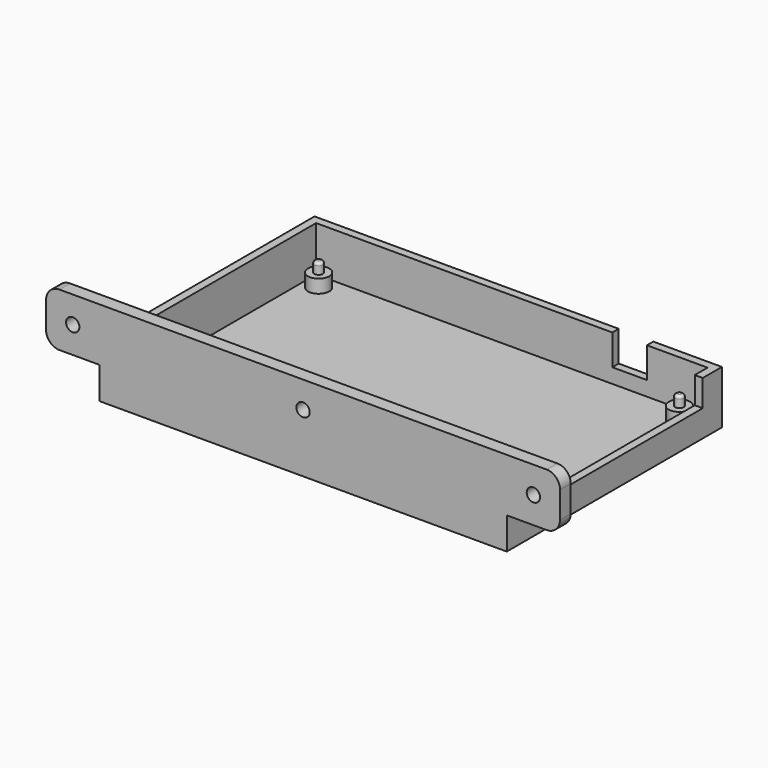
from build123d import *

# Parameters (mm, degrees)
F0_W          = 153
F0_H          = 99
F0_R          = 4
F1_DEPTH      = 20
F2_T          = -3
F3_R          = 4
F4_DEPTH      = 5
F5_R          = 1.6
F6_DEPTH      = 4
F7_R          = 1
F8_W          = 153
F8_H          = 8
F8_H_2        = 12
F9_DEPTH      = 3
F9_DEPTH_BACK = 2
F10_R         = 5
F11_W         = 13
F11_H         = 11.5
F12_DEPTH     = 3
F14_W         = 76
F14_H         = 10
F15_DEPTH     = 3
F17_D         = 5
F17_DEPTH     = 6
F17_TIP       = 1.5021515476


with BuildPart() as f1:
    # F0 (on Top) → F1 (new body)
    with BuildSketch(Plane.XY):
        with Locations((0, -2.5)):
            Rectangle(F0_W, F0_H)
        with Locations((-67.75, -38)):
            Circle(F0_R, mode=Mode.SUBTRACT)
        with Locations((67.75, -38)):
            Circle(F0_R, mode=Mode.SUBTRACT)
        with Locations((-67.75, 38)):
            Circle(F0_R, mode=Mode.SUBTRACT)
        with Locations((67.75, 38)):
            Circle(F0_R, mode=Mode.SUBTRACT)
        with Locations((-67.75, 38)):
            Circle(F0_R)
        with Locations((-67.75, -38)):
            Circle(F0_R)
        with Locations((67.75, -38)):
            Circle(F0_R)
        with Locations((67.75, 38)):
            Circle(F0_R)
    extrude(amount=F1_DEPTH)

    # F2
    f2_openings = [f1.faces().sort_by_distance(p)[0] for p in [
        (0, -2.5, 20),
    ]]
    offset(amount=F2_T, openings=f2_openings)

    # F3 (on face) → F4 (join)
    with BuildSketch(Plane.XY.offset(3)):
        with Locations((-67.75, 38)):
            Circle(F3_R)
        with Locations((-67.75, -38)):
            Circle(F3_R)
        with Locations((67.75, 38)):
            Circle(F3_R)
        with Locations((67.75, -38)):
            Circle(F3_R)
    extrude(amount=F4_DEPTH)

    # F5 (on face) → F6 (join)
    with BuildSketch(Plane.XY.offset(8)):
        with Locations((-67.75, -38)):
            Circle(F5_R)
        with Locations((-67.75, 38)):
            Circle(F5_R)
        with Locations((67.75, 38)):
            Circle(F5_R)
        with Locations((67.75, -38)):
            Circle(F5_R)
    extrude(amount=F6_DEPTH)

    # F7
    f7_edges = [f1.edges().sort_by_distance(p)[0] for p in [
        (-69.35, 38, 12),
        (-69.35, -38, 12),
        (66.15, 38, 12),
        (66.15, -38, 12),
    ]]
    fillet(f7_edges, radius=F7_R)

    # F8 (on face) → F9 (join, two sides)
    with BuildSketch(Plane.XZ.offset(52)) as f9_sk:
        Polygon((96.5, 32), (-96.5, 32), (-96.5, 12), (-76.5, 12), (-76.5, 20), (76.5, 20), (76.5, 12), (96.5, 12), align=None)
        with Locations((0, 16)):
            Rectangle(F8_W, F8_H)
        with Locations((0, 6)):
            Rectangle(F8_W, F8_H_2)
    extrude(amount=-F9_DEPTH)
    extrude(f9_sk.sketch, amount=F9_DEPTH_BACK)

    # F10
    f10_edges = [f1.edges().sort_by_distance(p)[0] for p in [
        (-96.5, -51.5, 32),
        (-96.5, -51.5, 12),
        (96.5, -51.5, 32),
        (96.5, -51.5, 12),
    ]]
    fillet(f10_edges, radius=F10_R)

    # F11 (on face) → F12 (cut, through all)
    with BuildSketch(Plane(origin=(0, 47, 0), x_dir=(-1, 0, 0), z_dir=(0, 1, 0))):
        with Locations((-44.25, 14.25)):
            Rectangle(F11_W, F11_H)
    extrude(amount=-F12_DEPTH, mode=Mode.SUBTRACT)

    # F14 (on face) → F15 (cut, through all)
    with BuildSketch(Plane.YZ.offset(76.5)):
        with Locations((0, 15)):
            Rectangle(F14_W, F14_H)
    extrude(amount=-F15_DEPTH, mode=Mode.SUBTRACT)

    # F17
    with Locations(Plane.XZ.offset(54)):
        with Locations((-86.5, 22), (0, 22), (86.5, 22)):
            Hole(F17_D / 2, depth=F17_DEPTH)
            with Locations((0, 0, -(F17_DEPTH + F17_TIP / 2))):  # 118° drill point
                Cone(0, F17_D / 2, F17_TIP, mode=Mode.SUBTRACT)


solid = f1.part
